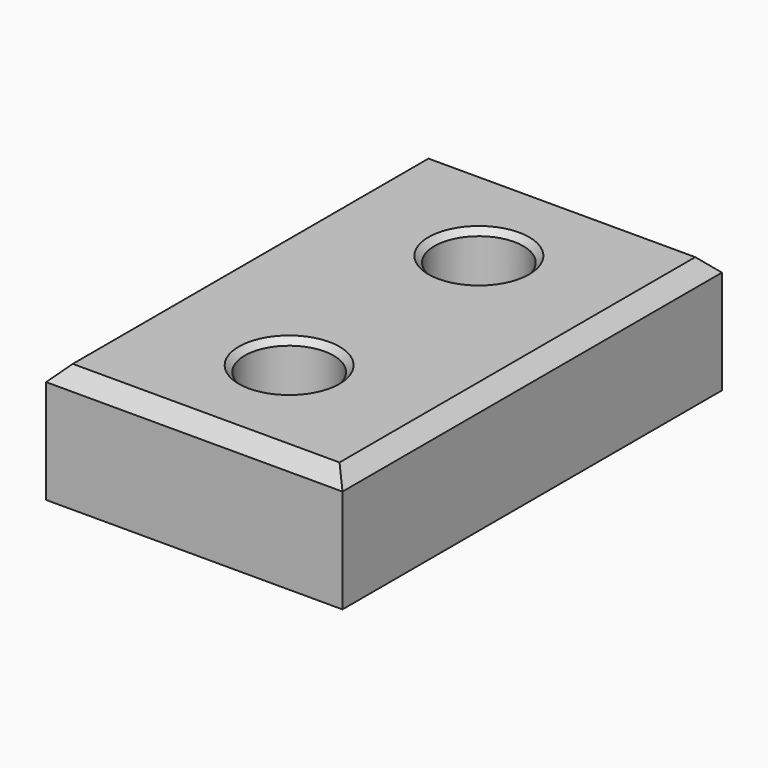
from build123d import *

# Parameters (mm, degrees)
F0_W     = 63.5
F0_H     = 101.6
F0_R     = 9.525
F1_DEPTH = 25.4
F2_SIZE  = 3.175
F3_SIZE  = 1.27


with BuildPart() as f1:
    # F0 (on Top) → F1 (new body)
    with BuildSketch(Plane.XY):
        with Locations((31.75, 50.8)):
            Rectangle(F0_W, F0_H)
        with Locations((31.75, 25.4)):
            Circle(F0_R, mode=Mode.SUBTRACT)
        with Locations((31.75, 76.2)):
            Circle(F0_R, mode=Mode.SUBTRACT)
    extrude(amount=F1_DEPTH)

    # F2
    f2_edges = [f1.edges().sort_by_distance(p)[0] for p in [
        (63.5, 50.8, 25.4),
        (31.75, 101.6, 25.4),
        (0, 50.8, 25.4),
        (31.75, 0, 25.4),
    ]]
    chamfer(f2_edges, length=F2_SIZE)

    # F3
    f3_edges = [f1.edges().sort_by_distance(p)[0] for p in [
        (22.225, 76.2, 25.4),
        (22.225, 25.4, 25.4),
    ]]
    chamfer(f3_edges, length=F3_SIZE)


solid = f1.part
